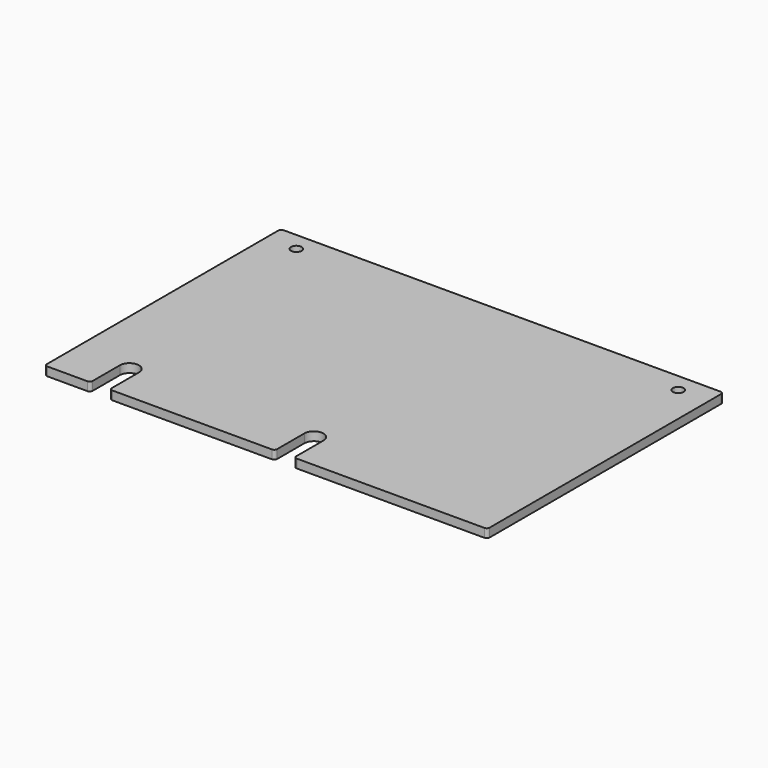
from build123d import *

# Parameters (mm, degrees)
SKETCH_R  = 1.8288
PAD_DEPTH = 3


with BuildPart() as part:
    # Sketch → Pad (new body)
    with BuildSketch(Plane.XY):
        with BuildLine():
            ThreePointArc((-75.2, 50.8), (-75.907107, 50.507107), (-76.2, 49.8))
            Line((-76.2, -49.8), (-76.2, 49.8))
            ThreePointArc((-76.2, -49.8), (-75.907107, -50.507107), (-75.2, -50.8))
            Line((-75.2, -50.8), (-61.452, -50.8))
            ThreePointArc((-61.452, -50.8), (-60.744893, -50.507107), (-60.452, -49.8))
            Line((-60.452, -38.1), (-60.452, -49.8))
            ThreePointArc((-53.848, -38.1), (-57.15, -34.797985), (-60.452, -38.1))
            Line((-53.848, -38.1), (-53.848, -49.8))
            ThreePointArc((-53.848, -49.8), (-53.555107, -50.507107), (-52.848, -50.8))
            Line((-52.848, -50.8), (2.048, -50.8))
            ThreePointArc((2.048, -50.8), (2.755107, -50.507107), (3.048, -49.8))
            Line((3.048, -38.1), (3.048, -49.8))
            ThreePointArc((9.652, -38.1), (6.35, -34.797989), (3.048, -38.1))
            Line((9.652, -38.1), (9.652, -49.8))
            ThreePointArc((9.652, -49.8), (9.944893, -50.507107), (10.652, -50.8))
            Line((10.652, -50.8), (75.2, -50.8))
            ThreePointArc((75.2, -50.8), (75.907107, -50.507107), (76.2, -49.8))
            Line((76.2, 49.8), (76.2, -49.8))
            ThreePointArc((76.2, 49.8), (75.907107, 50.507107), (75.2, 50.8))
            Line((-75.2, 50.8), (75.2, 50.8))
        make_face()
        with Locations((-65.7352, 44.45)):
            Circle(SKETCH_R, mode=Mode.SUBTRACT)
        with Locations((65.7352, 44.45)):
            Circle(SKETCH_R, mode=Mode.SUBTRACT)
    extrude(amount=PAD_DEPTH)


solid = part.part
